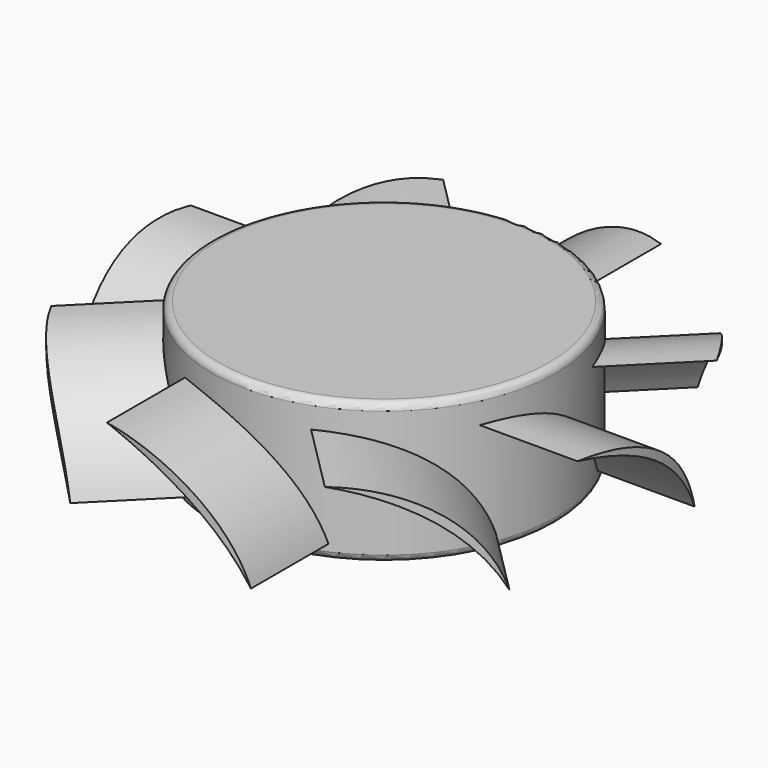
from build123d import *

# Parameters (mm, degrees)
SKETCH082_R           = 12.25
PAD029_DEPTH          = 10
FILLET042_R           = 0.5
PAD031_DEPTH          = 7.5
SKETCH077_R           = 32.89
SKETCH077_R_2         = 18.75
POCKET021_DEPTH       = 94.210561
POLARPATTERN005_COUNT = 8


with BuildPart() as part:
    # Sketch082 → Pad029 (new body)
    with BuildSketch(Plane.XY):
        Circle(SKETCH082_R)
    extrude(amount=PAD029_DEPTH)

    # Fillet042
    fillet042_edges = [part.edges().sort_by_distance(p)[0] for p in [
        (-12.25, 0, 10),
        (-12.25, 0, 0),
    ]]
    fillet(fillet042_edges, radius=FILLET042_R)

    # Sketch065 (on DatumPlane) → Pad031 (join, symmetric)
    with BuildSketch(Plane(origin=(0, 13, -2), x_dir=(1, 0, 0), z_dir=(0, -1, 0))):
        with BuildLine():
            ThreePointArc((5.3, 10), (-1.072659, 8.299055), (-5, 3))
            ThreePointArc((5.3, 10), (-0.742753, 7.813623), (-5, 3))
        make_face()
    pad031 = extrude(amount=PAD031_DEPTH, both=True)

    # Sketch077 (on Face7 of Pad031) → Pocket021 (cut, through all)
    with BuildSketch(Plane.XY.offset(10)):
        Circle(SKETCH077_R)
        Circle(SKETCH077_R_2, mode=Mode.SUBTRACT)
    pocket021 = extrude(amount=-POCKET021_DEPTH, mode=Mode.SUBTRACT)

    # PolarPattern005: Pad031, Pocket021 ×8 about axis
    polarpattern005_axis = Axis((0, 0, 0), (0, 0, 1))
    for i in range(1, POLARPATTERN005_COUNT):
        add(pad031.rotate(polarpattern005_axis, i * 360 / POLARPATTERN005_COUNT))
        add(pocket021.rotate(polarpattern005_axis, i * 360 / POLARPATTERN005_COUNT), mode=Mode.SUBTRACT)


solid = part.part
